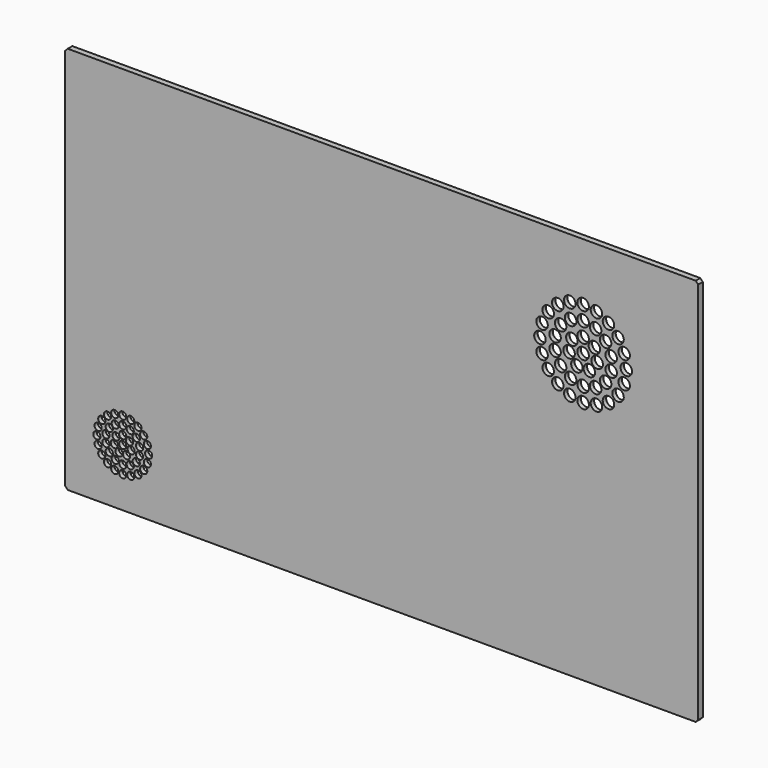
from build123d import *

# Parameters (mm, degrees)
F0_W     = 439.997
F0_H     = 270.002
F1_DEPTH = 4
F2_T     = -3
F4_SIZE  = 1.778
F3_W     = 5
F3_H     = 5
F5_DEPTH = 1
F6_R     = 2.5
F7_DEPTH = 4.001
F8_R     = 4
F9_DEPTH = 4.001


with BuildPart() as f1:
    # F0 (on Front) → F1 (new body)
    with BuildSketch(Plane.XZ):
        with Locations((-2.7703095811, 18.9870057008)):
            Rectangle(F0_W, F0_H)
    extrude(amount=F1_DEPTH)

    # F2
    f2_openings = [f1.faces().sort_by_distance(p)[0] for p in [
        (-2.77031, 0, 18.987006),
    ]]
    offset(amount=F2_T, openings=f2_openings)

    # F4
    f4_edges = [f1.edges().sort_by_distance(p)[0] for p in [
        (-222.76881, -2, -116.013994),
        (-222.76881, -2, 153.988006),
        (217.22819, -2, 153.988006),
        (217.22819, -2, -116.013994),
    ]]
    chamfer(f4_edges, length=F4_SIZE)

    # F3 (on face) → F5 (join, through all)
    with BuildSketch(Plane(origin=(0, -1, 0), x_dir=(-1, 0, 0), z_dir=(0, 1, 0))):
        with Locations((217.2688095811, -110.5139942992)):
            Rectangle(F3_W, F3_H)
        with Locations((217.2688095811, 148.4880057008)):
            Rectangle(F3_W, F3_H)
        with Locations((-211.7281904189, -110.5139942992)):
            Rectangle(F3_W, F3_H)
    extrude(amount=F5_DEPTH)

    # F6 (on face) → F7 (cut, through all)
    with BuildSketch(Plane.XZ.offset(4)):
        with Locations((-182.7688095811, -58.0139942992)):
            Circle(F6_R)
        with Locations((-188.3311154799, -58.8949770059)):
            Circle(F6_R)
        with Locations((-193.3489441224, -61.4516884005)):
            Circle(F6_R)
        with Locations((-197.3311154799, -65.433859758)):
            Circle(F6_R)
        with Locations((-199.8878268745, -70.4516884005)):
            Circle(F6_R)
        with Locations((-200.7688095811, -76.0139942992)):
            Circle(F6_R)
        with Locations((-199.8878268745, -81.576300198)):
            Circle(F6_R)
        with Locations((-197.3311154799, -86.5941288405)):
            Circle(F6_R)
        with Locations((-193.3489441224, -90.576300198)):
            Circle(F6_R)
        with Locations((-188.3311154799, -93.1330115926)):
            Circle(F6_R)
        with Locations((-182.7688095811, -94.0139942992)):
            Circle(F6_R)
        with Locations((-177.2065036824, -93.1330115926)):
            Circle(F6_R)
        with Locations((-172.1886750399, -90.576300198)):
            Circle(F6_R)
        with Locations((-168.2065036824, -86.5941288405)):
            Circle(F6_R)
        with Locations((-182.7688095811, -64.0139942992)):
            Circle(F6_R)
        with Locations((-187.9754144506, -65.2023678844)):
            Circle(F6_R)
        with Locations((-192.1507873708, -68.5321166769)):
            Circle(F6_R)
        with Locations((-194.4679445273, -73.3437430918)):
            Circle(F6_R)
        with Locations((-194.4679445273, -78.6842455067)):
            Circle(F6_R)
        with Locations((-192.1507873708, -83.4958719215)):
            Circle(F6_R)
        with Locations((-187.9754144506, -86.8256207141)):
            Circle(F6_R)
        with Locations((-182.7688095811, -88.0139942992)):
            Circle(F6_R)
        with Locations((-177.5622047117, -86.8256207141)):
            Circle(F6_R)
        with Locations((-173.3868317915, -83.4958719215)):
            Circle(F6_R)
        with Locations((-182.7688095811, -70.0139942992)):
            Circle(F6_R)
        with Locations((-187.459798476, -72.2730554881)):
            Circle(F6_R)
        with Locations((-188.6183770542, -77.349119903)):
            Circle(F6_R)
        with Locations((-185.3721120159, -81.4198075067)):
            Circle(F6_R)
        with Locations((-180.1655071464, -81.4198075067)):
            Circle(F6_R)
        with Locations((-176.9192421081, -77.349119903)):
            Circle(F6_R)
        with Locations((-178.0778206863, -72.2730554881)):
            Circle(F6_R)
        with Locations((-182.7688095811, -76.0139942992)):
            Circle(F6_R)
        with Locations((-165.6497922878, -81.576300198)):
            Circle(F6_R)
        with Locations((-164.7688095811, -76.0139942992)):
            Circle(F6_R)
        with Locations((-165.6497922878, -70.4516884005)):
            Circle(F6_R)
        with Locations((-171.069674635, -78.6842455067)):
            Circle(F6_R)
        with Locations((-171.069674635, -73.3437430918)):
            Circle(F6_R)
        with Locations((-168.2065036824, -65.433859758)):
            Circle(F6_R)
        with Locations((-172.1886750399, -61.4516884005)):
            Circle(F6_R)
        with Locations((-177.2065036824, -58.8949770059)):
            Circle(F6_R)
        with Locations((-173.3868317915, -68.5321166769)):
            Circle(F6_R)
        with Locations((-177.5622047117, -65.2023678844)):
            Circle(F6_R)
    extrude(amount=-F7_DEPTH, mode=Mode.SUBTRACT)

    # F8 (on face) → F9 (cut, through all)
    with BuildSketch(Plane.XZ.offset(4)):
        with Locations((137.2281904189, 113.9880057008)):
            Circle(F8_R)
        with Locations((127.9576805876, 112.5197011896)):
            Circle(F8_R)
        with Locations((119.5946328501, 108.258515532)):
            Circle(F8_R)
        with Locations((112.9576805876, 101.6215632695)):
            Circle(F8_R)
        with Locations((108.69649493, 93.258515532)):
            Circle(F8_R)
        with Locations((107.2281904189, 83.9880057008)):
            Circle(F8_R)
        with Locations((108.69649493, 74.7174958695)):
            Circle(F8_R)
        with Locations((112.9576805876, 66.354448132)):
            Circle(F8_R)
        with Locations((119.5946328501, 59.7174958695)):
            Circle(F8_R)
        with Locations((127.9576805876, 55.4563102119)):
            Circle(F8_R)
        with Locations((137.2281904189, 53.9880057008)):
            Circle(F8_R)
        with Locations((146.4987002501, 55.4563102119)):
            Circle(F8_R)
        with Locations((154.8617479876, 59.7174958695)):
            Circle(F8_R)
        with Locations((161.4987002501, 66.354448132)):
            Circle(F8_R)
        with Locations((137.2281904189, 103.9880057008)):
            Circle(F8_R)
        with Locations((128.5505156365, 102.0073830588)):
            Circle(F8_R)
        with Locations((121.5915607695, 96.4578017379)):
            Circle(F8_R)
        with Locations((117.7296321752, 88.4384243799)):
            Circle(F8_R)
        with Locations((117.7296321752, 79.5375870216)):
            Circle(F8_R)
        with Locations((121.5915607695, 71.5182096636)):
            Circle(F8_R)
        with Locations((128.5505156365, 65.9686283427)):
            Circle(F8_R)
        with Locations((137.2281904189, 63.9880057008)):
            Circle(F8_R)
        with Locations((145.9058652012, 65.9686283427)):
            Circle(F8_R)
        with Locations((152.8648200682, 71.5182096636)):
            Circle(F8_R)
        with Locations((137.2281904189, 93.9880057008)):
            Circle(F8_R)
        with Locations((129.4098755942, 90.2229037193)):
            Circle(F8_R)
        with Locations((127.478911297, 81.7627963612)):
            Circle(F8_R)
        with Locations((132.8893530277, 74.9783170217)):
            Circle(F8_R)
        with Locations((141.56702781, 74.9783170217)):
            Circle(F8_R)
        with Locations((146.9774695407, 81.7627963612)):
            Circle(F8_R)
        with Locations((145.0465052435, 90.2229037193)):
            Circle(F8_R)
        with Locations((137.2281904189, 83.9880057008)):
            Circle(F8_R)
        with Locations((165.7598859077, 74.7174958695)):
            Circle(F8_R)
        with Locations((167.2281904189, 83.9880057008)):
            Circle(F8_R)
        with Locations((165.7598859077, 93.258515532)):
            Circle(F8_R)
        with Locations((156.7267486625, 79.5375870216)):
            Circle(F8_R)
        with Locations((156.7267486625, 88.4384243799)):
            Circle(F8_R)
        with Locations((161.4987002501, 101.6215632695)):
            Circle(F8_R)
        with Locations((154.8617479876, 108.258515532)):
            Circle(F8_R)
        with Locations((146.4987002501, 112.5197011896)):
            Circle(F8_R)
        with Locations((152.8648200682, 96.4578017379)):
            Circle(F8_R)
        with Locations((145.9058652012, 102.0073830588)):
            Circle(F8_R)
    extrude(amount=-F9_DEPTH, mode=Mode.SUBTRACT)


solid = f1.part
